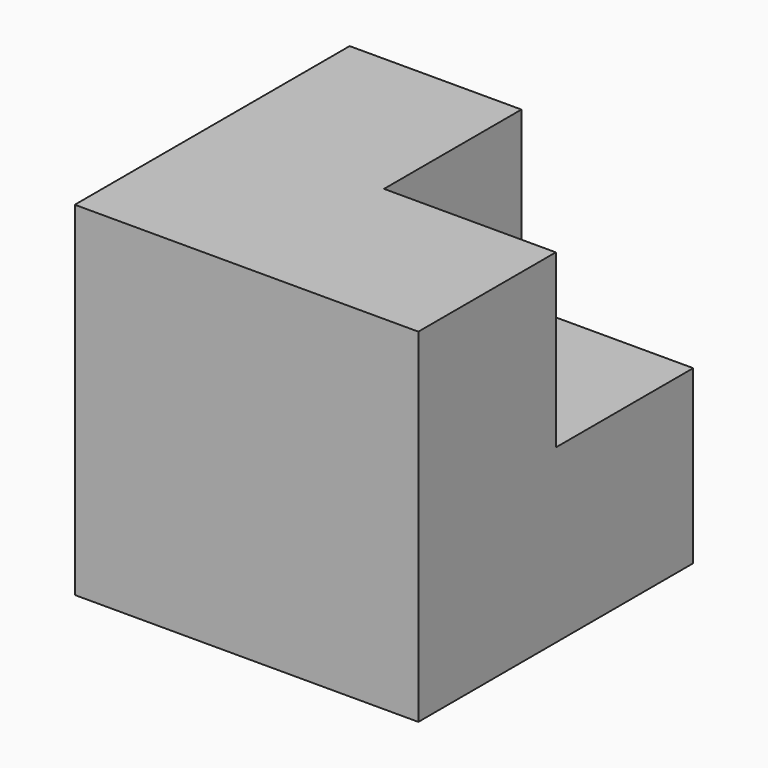
from build123d import *

# Parameters (mm, degrees)
F0_W     = 19.05
F0_H     = 19.05
F1_DEPTH = 19.05
F2_DEPTH = 19.05


with BuildPart() as f1:
    # F0 (on Front) → F1 (new body)
    with BuildSketch(Plane.XZ):
        Polygon((2.5146, 13.43172), (-16.5354, 13.43172), (-16.5354, -24.66828), (2.5146, -24.66828), (2.5146, -5.61828), align=None)
        with Locations((12.0396, -15.14328)):
            Rectangle(F0_W, F0_H)
        with Locations((12.0396, 3.90672)):
            Rectangle(F0_W, F0_H)
    extrude(amount=F1_DEPTH)

    # F0 (on Front) → F2 (join)
    with BuildSketch(Plane.XZ):
        Polygon((2.5146, 13.43172), (-16.5354, 13.43172), (-16.5354, -24.66828), (2.5146, -24.66828), (2.5146, -5.61828), align=None)
        with Locations((12.0396, -15.14328)):
            Rectangle(F0_W, F0_H)
    extrude(amount=-F2_DEPTH)


solid = f1.part
